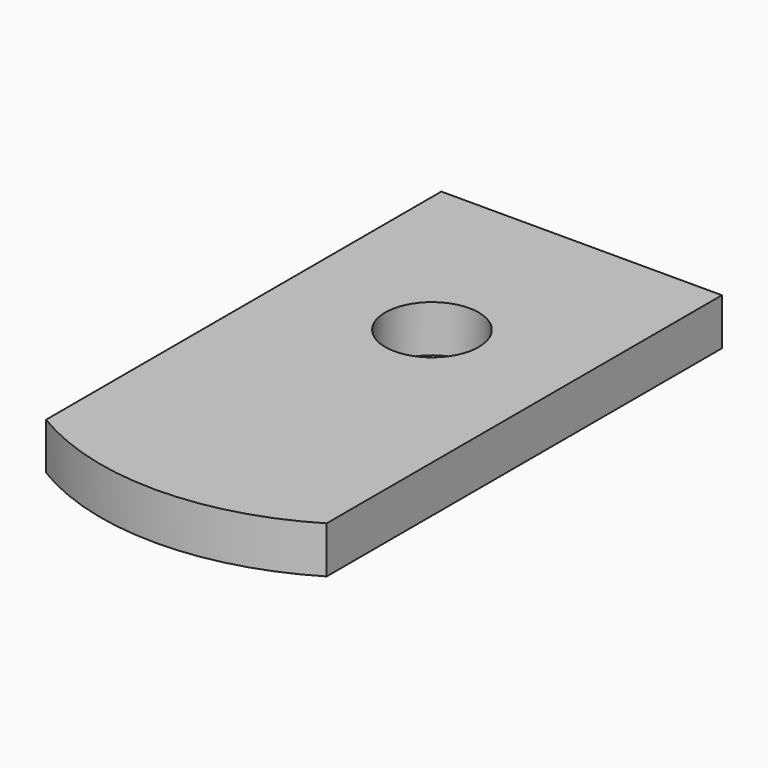
from build123d import *

# Parameters (mm, degrees)
F0_R     = 127
F1_DEPTH = 127


with BuildPart() as f1:
    # F0 (on Top) → F1 (new body)
    with BuildSketch(Plane.XY):
        with BuildLine():
            Line((381, 0), (381, 508))
            Line((381, 508), (-381, 508))
            Line((-381, 508), (-381, 0))
            Line((-381, 0), (-381, -833.611421))
            ThreePointArc((-381, -833.611421), (0, -939.8), (381, -833.611421))
            Line((381, -833.611421), (381, 0))
        make_face()
        Circle(F0_R, mode=Mode.SUBTRACT)
    extrude(amount=F1_DEPTH)


solid = f1.part
